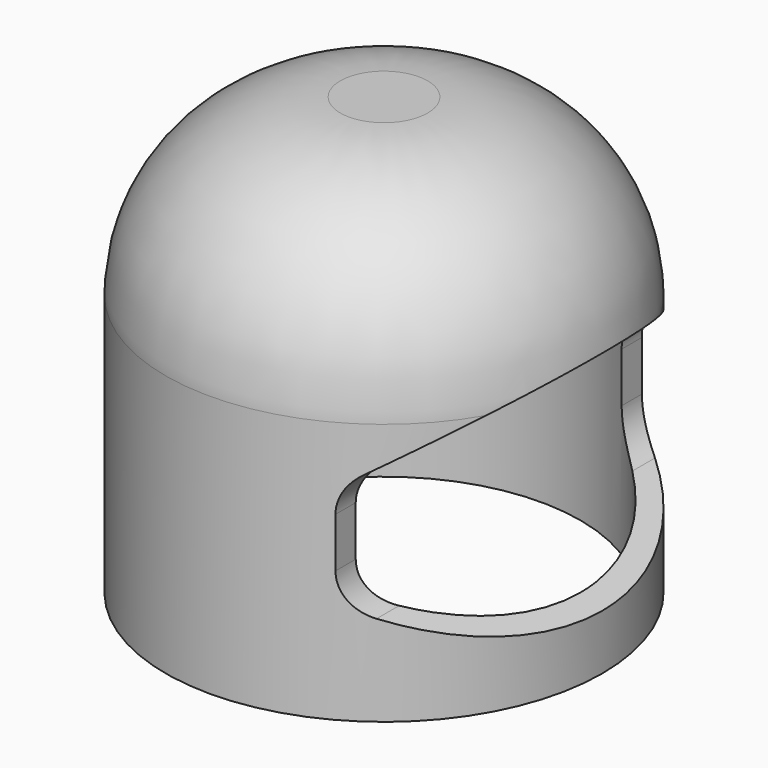
from build123d import *

# Parameters (mm, degrees)
F0_R     = 5
F1_DEPTH = 10
F2_R     = 4
F4_T     = -0.5
F5_DEPTH = 12.5


with BuildPart() as f1:
    # F0 (on Top) → F1 (new body)
    with BuildSketch(Plane.XY):
        with Locations((0.589301, 0)):
            Circle(F0_R)
    extrude(amount=F1_DEPTH)

    # F2
    f2_edges = [f1.edges().sort_by_distance(p)[0] for p in [
        (-4.410699, 0, 10),
    ]]
    fillet(f2_edges, radius=F2_R)

    # F4
    f4_openings = [f1.faces().sort_by_distance(p)[0] for p in [
        (0.589301, 0, 0),
    ]]
    offset(amount=F4_T, openings=f4_openings)

    # F3 (on Front) → F5 (cut, symmetric)
    with BuildSketch(Plane.XZ):
        with BuildLine():
            Line((6.897407, 0.725236), (7.466279, 7.742188))
            Line((7.466279, 7.742188), (3.422367, 4.97136))
            ThreePointArc((3.422367, 4.97136), (3.102943, 4.612672), (2.987599, 4.146427))
            Line((2.987599, 4.146427), (2.987599, 3.004849))
            ThreePointArc((2.987599, 3.004849), (3.156711, 2.448409), (3.606849, 2.080171))
            Line((3.606849, 2.080171), (6.897407, 0.725236))
        make_face()
    extrude(amount=F5_DEPTH, both=True, mode=Mode.SUBTRACT)


solid = f1.part
